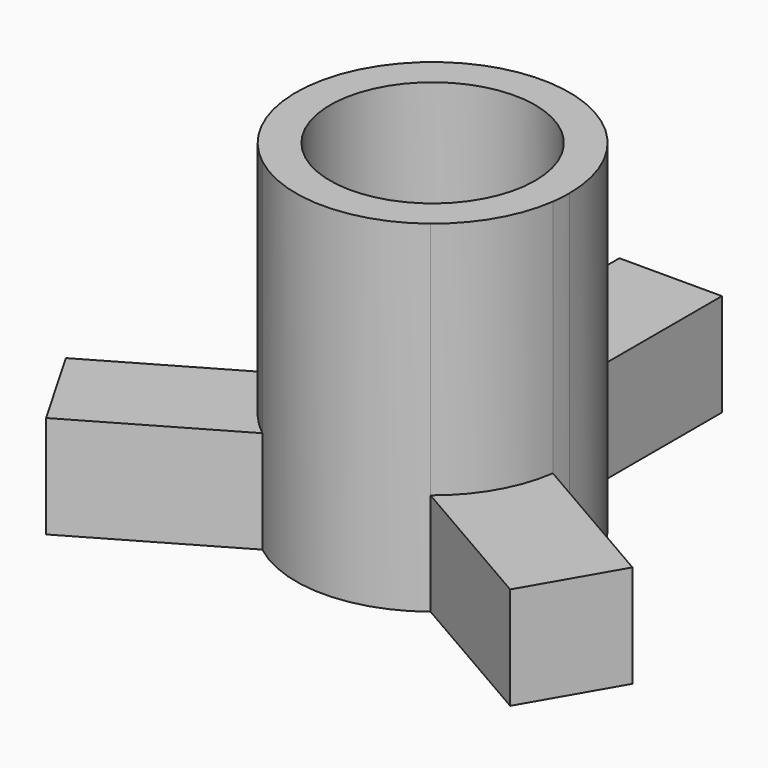
from build123d import *

# Parameters (mm, degrees)
F1_DEPTH = 12.7
F3_DEPTH = 3.81
F4_R     = 3.81
F5_DEPTH = 6.35


with BuildPart() as f1:
    # F0 (on Top) → F1 (new body)
    with BuildSketch(Plane.XY):
        with BuildLine():
            ThreePointArc((5.030861, -0.704865), (5.0677, -0.353288), (5.08, 0))
            ThreePointArc((5.08, 0), (4.212113, 2.839806), (1.905, 4.709286))
            ThreePointArc((1.905, 4.709286), (0, 5.08), (-1.905, 4.709286))
            ThreePointArc((-1.905, 4.709286), (-4.399409, 2.54), (-5.030861, -0.704865))
            ThreePointArc((-5.030861, -0.704865), (-4.399409, -2.54), (-3.125861, -4.004421))
            ThreePointArc((-3.125861, -4.004421), (0, -5.08), (3.125861, -4.004421))
            ThreePointArc((3.125861, -4.004421), (4.399409, -2.54), (5.030861, -0.704865))
        make_face()
    extrude(amount=F1_DEPTH)

    # F2 (on Top) → F3 (join)
    with BuildSketch(Plane.XY):
        with BuildLine():
            Line((10.530123, -3.879865), (5.030861, -0.704865))
            ThreePointArc((5.030861, -0.704865), (4.399409, -2.54), (3.125861, -4.004421))
            Line((3.125861, -4.004421), (8.625123, -7.179421))
            Line((8.625123, -7.179421), (10.530123, -3.879865))
        make_face()
        with BuildLine():
            ThreePointArc((-1.905, 4.709286), (0, 5.08), (1.905, 4.709286))
            Line((1.905, 4.709286), (1.905, 11.059286))
            Line((1.905, 11.059286), (-1.905, 11.059286))
            Line((-1.905, 11.059286), (-1.905, 4.709286))
        make_face()
        with BuildLine():
            ThreePointArc((-3.125861, -4.004421), (-4.399409, -2.54), (-5.030861, -0.704865))
            Line((-5.030861, -0.704865), (-10.530123, -3.879865))
            Line((-10.530123, -3.879865), (-8.625123, -7.179421))
            Line((-8.625123, -7.179421), (-3.125861, -4.004421))
        make_face()
    extrude(amount=F3_DEPTH)

    # F4 (on face) → F5 (cut)
    with BuildSketch(Plane.XY.offset(12.7)):
        Circle(F4_R)
    extrude(amount=-F5_DEPTH, mode=Mode.SUBTRACT)


solid = f1.part
